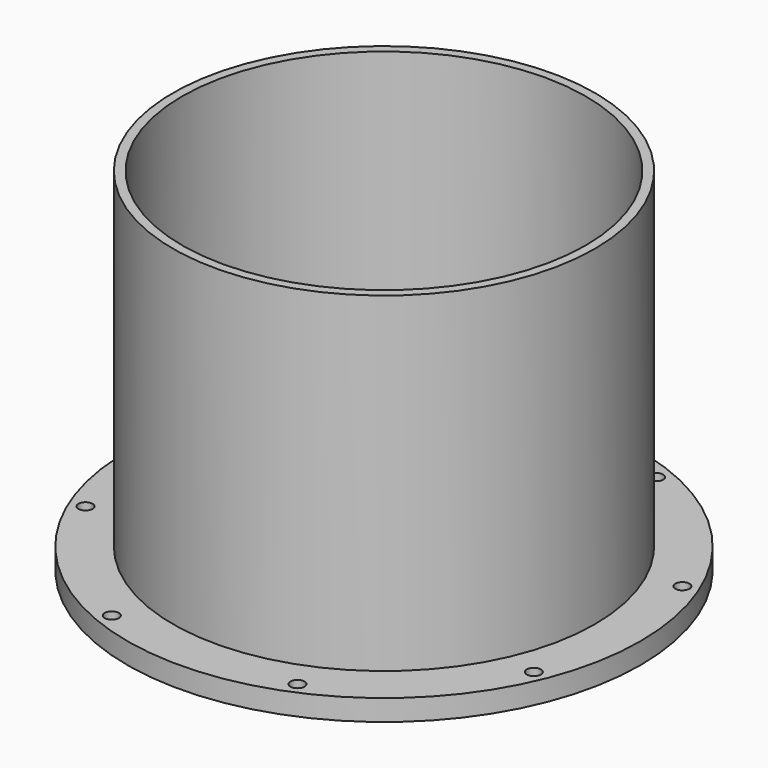
from build123d import *

# Parameters (mm, degrees)
SKETCH_R           = 182.5
SKETCH_R_2         = 143.5
PAD_DEPTH          = 15
SKETCH001_R        = 150
SKETCH001_R_2      = 143.5
PAD001_DEPTH       = 235
SKETCH002_R        = 5
POCKET_DEPTH       = 1162.084258
POLARPATTERN_COUNT = 8


with BuildPart() as part:
    # Sketch → Pad (new body)
    with BuildSketch(Plane.XY):
        Circle(SKETCH_R)
        Circle(SKETCH_R_2, mode=Mode.SUBTRACT)
    extrude(amount=PAD_DEPTH)

    # Sketch001 (on Face4 of Pad) → Pad001 (join)
    with BuildSketch(Plane.XY.offset(15)):
        Circle(SKETCH001_R)
        Circle(SKETCH001_R_2, mode=Mode.SUBTRACT)
    extrude(amount=PAD001_DEPTH)

    # Sketch002 (on Face3 of Pad001) → Pocket (cut, through all)
    with BuildSketch(Plane.XY.offset(15)):
        with Locations((159.369219, 66.012892)):
            Circle(SKETCH002_R)
    pocket = extrude(amount=-POCKET_DEPTH, mode=Mode.SUBTRACT)

    # PolarPattern: Pocket ×8 about axis
    polarpattern_axis = Axis((0, 0, 15), (0, 0, 1))
    for i in range(1, POLARPATTERN_COUNT):
        add(pocket.rotate(polarpattern_axis, i * 360 / POLARPATTERN_COUNT), mode=Mode.SUBTRACT)


solid = part.part
